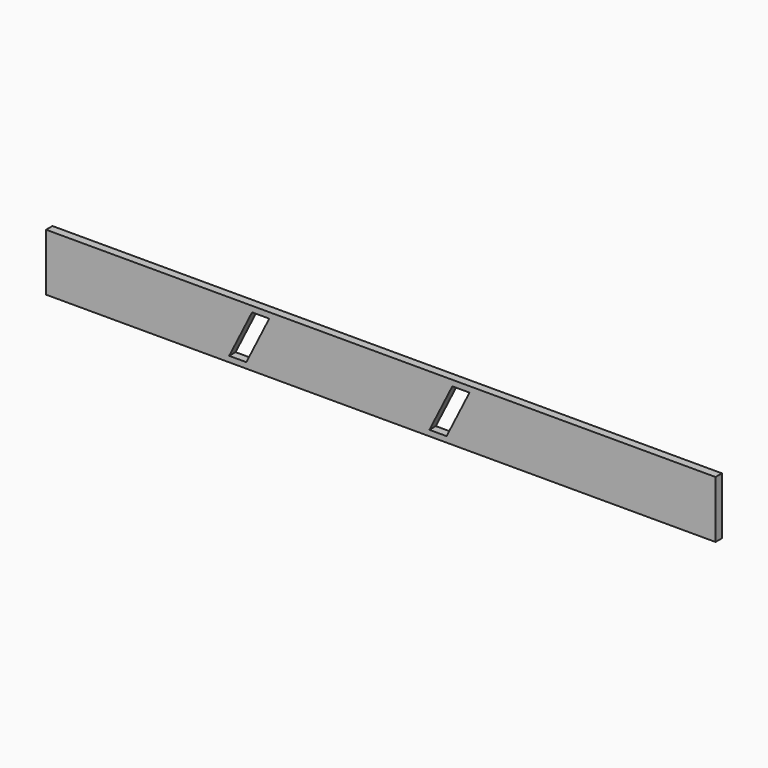
from build123d import *

# Parameters (mm, degrees)
F0_W     = 117
F0_H     = 10
F1_DEPTH = 1.4
F3_DEPTH = 25


with BuildPart() as f1:
    # F0 (on Front) → F1 (new body)
    with BuildSketch(Plane.XZ):
        Rectangle(F0_W, F0_H)
    extrude(amount=F1_DEPTH)

    # F2 (on face) → F3 (cut)
    with BuildSketch(Plane.XZ.offset(1.4)):
        Polygon((-22.5, 4), (-26.5, -4), (-23.5, -4), (-19.5, 4), align=None)
        Polygon((12.5, 4), (8.5, -4), (11.5, -4), (15.5, 4), align=None)
    extrude(amount=-F3_DEPTH, mode=Mode.SUBTRACT)


solid = f1.part
